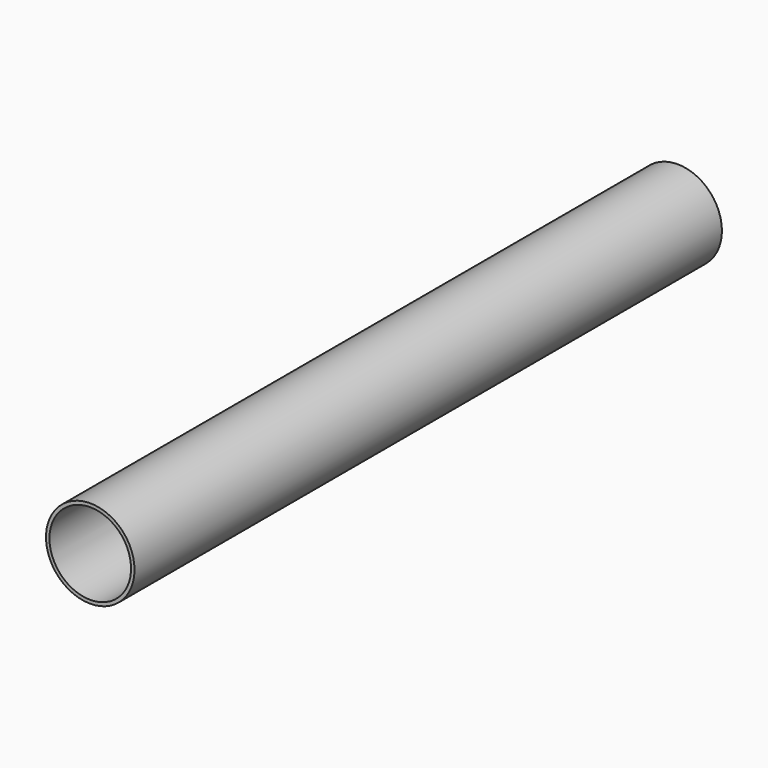
from build123d import *

# Parameters (mm, degrees)
F0_R     = 55.11276
F1_DEPTH = 914.4
F3_D     = 101.6
F5_R     = 15.875
F6_DEPTH = 88.9


with BuildPart() as f1:
    # F0 (on Front) → F1 (new body)
    with BuildSketch(Plane.XZ):
        Circle(F0_R)
    extrude(amount=F1_DEPTH)

    # F3 (through all)
    with Locations(Plane.XZ.offset(914.4)):
        with Locations((0, 0)):
            Hole(F3_D / 2)

    # F5 (on Right) → F6 (cut)
    with BuildSketch(Plane.YZ):
        with Locations((-762, 0)):
            Circle(F5_R)
        with Locations((-609.6, 0)):
            Circle(F5_R)
        with Locations((-457.2, 0)):
            Circle(F5_R)
        with Locations((-304.8, 0)):
            Circle(F5_R)
        with Locations((-152.4, 0)):
            Circle(F5_R)
    extrude(amount=-F6_DEPTH, mode=Mode.SUBTRACT)


solid = f1.part
